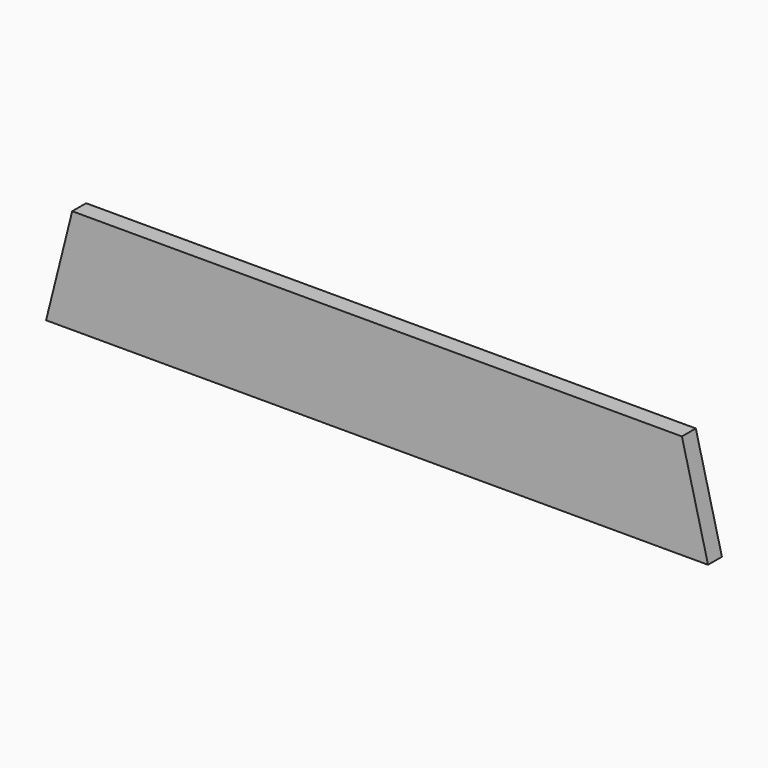
from build123d import *

# Parameters (mm, degrees)
F0_W     = 111.125
F0_H     = 19.05
F1_DEPTH = 3.1623


with BuildPart() as f1:
    # F0 (on Front) → F1 (new body)
    with BuildSketch(Plane.XZ):
        Polygon((-4.7625, 0), (0, 0), (-4.7625, 19.05), align=None)
        with Locations((-60.325, 9.525)):
            Rectangle(F0_W, F0_H)
        Polygon((-120.65, 0), (-115.8875, 0), (-115.8875, 19.05), align=None)
    extrude(amount=F1_DEPTH)


solid = f1.part
